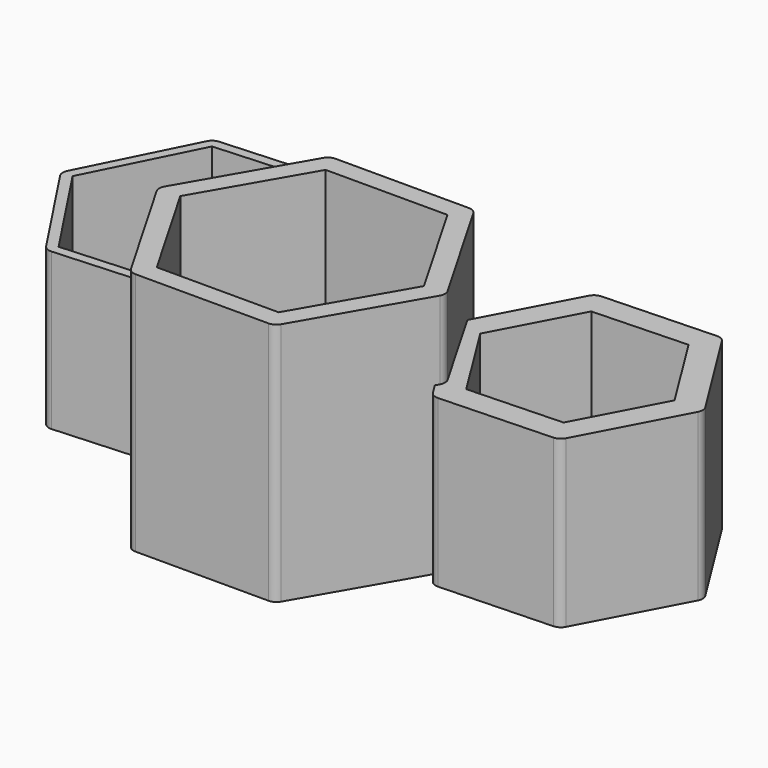
from build123d import *

# Parameters (mm, degrees)
F1_DEPTH  = 100
F3_DEPTH  = 90
F4_DEPTH  = 25
F5_R      = 5
F7_DEPTH  = 25
F8_DEPTH  = 60
F9_R      = 5
F11_DEPTH = 10
F12_DEPTH = 50
F14_DEPTH = 10
F16_DEPTH = 80
F18_DEPTH = 75
F19_R     = 5


with BuildPart() as f1:
    # F0 (on Top) → F1 (new body)
    with BuildSketch(Plane.XY):
        Polygon((36.954793705, 64.0075802803), (-36.954793705, 64.0075802803), (-73.90958741, 0), (-36.954793705, -64.0075802803), (36.954793705, -64.0075802803), (73.90958741, 0), align=None)
    extrude(amount=F1_DEPTH)

    # F2 (on face) → F3 (cut)
    with BuildSketch(Plane.XY.offset(100)):
        Polygon((31.1812910131, 54.0075802803), (-31.1812910131, 54.0075802803), (-62.3625820262, 0), (-31.1812910131, -54.0075802803), (31.1812910131, -54.0075802803), (62.3625820262, 0), align=None)
    extrude(amount=-F3_DEPTH, mode=Mode.SUBTRACT)

    # F4 (add): a face of the model
    f4_faces = [f1.faces().sort_by_distance(p)[0] for p in [
        (53.7387091631, 31.0260582012, 100),
    ]]
    extrude(f4_faces, amount=F4_DEPTH)

    # F5
    f5_edges = [f1.edges().sort_by_distance(p)[0] for p in [
        (36.954794, -64.00758, 62.5),
        (73.909587, 0, 62.5),
        (36.954794, 64.00758, 62.5),
        (-36.954794, -64.00758, 62.5),
        (-73.909587, 0, 62.5),
        (-36.954794, 64.00758, 62.5),
    ]]
    fillet(f5_edges, radius=F5_R)

    # F6 (on Top) → F7 (join)
    with BuildSketch(Plane.XY):
        Polygon((72.4010563695, 97.2648855515), (42.7573003567, 41.3652363949), (76.3459385825, -12.2568339541), (139.5783328212, -9.9792551465), (169.222088834, 45.9203940101), (135.6334506082, 99.5424643591), align=None)
        Polygon((57.6229365769, 41.9006843788), (80.2975860361, 84.6585909333), (128.6643440546, 86.400721757), (154.3564526138, 45.3849460261), (131.6818031546, 2.6270394716), (83.3150451361, 0.884908648), align=None, mode=Mode.SUBTRACT)
    extrude(amount=F7_DEPTH)

    # F8 (add): a face of the model
    f8_faces = [f1.faces().sort_by_distance(p)[0] for p in [
        (104.0770804564, 96.7426995418, 25),
    ]]
    extrude(f8_faces, amount=F8_DEPTH)

    # F9
    f9_edges = [f1.edges().sort_by_distance(p)[0] for p in [
        (139.578333, -9.979255, 42.5),
        (169.222089, 45.920394, 42.5),
        (135.633451, 99.542464, 42.5),
        (76.345939, -12.256834, 42.5),
        (72.401056, 97.264886, 42.5),
    ]]
    fillet(f9_edges, radius=F9_R)

    # F13 (on Top) → F14 (join)
    with BuildSketch(Plane.XY):
        Polygon((80.7393563532, 83.0987106545), (58.3791809535, 40.7320548312), (83.8896934701, 0.1842469904), (131.7603813863, 2.0030949728), (154.120556786, 44.3697507961), (128.6100442695, 84.917558637), align=None)
    extrude(amount=F14_DEPTH)

    # F15 (on Top) → F16 (join)
    with BuildSketch(Plane.XY):
        Polygon((-62.4931809091, 1.7224331433), (-32.4628147698, 61.7831568187), (-69.4617441727, 117.8205786179), (-136.4910397149, 113.7972767418), (-166.5214058542, 53.7365530664), (-129.5224764513, -2.3008687328), align=None)
    extrude(amount=F16_DEPTH)

    # F17 (on face) → F18 (cut)
    with BuildSketch(Plane.XY.offset(80)):
        with BuildLine():
            Line((-72.0437333661, 112.6566009709), (-133.3098984847, 108.9792196846))
            Line((-133.3098984847, 108.9792196846), (-160.7582754306, 54.0824736562))
            Line((-160.7582754306, 54.0824736562), (-126.9404872579, 2.8631089142))
            Line((-126.9404872579, 2.8631089142), (-76.2742702816, 5.9042491226))
            Line((-76.2742702816, 5.9042491226), (-42.7282963969, 64.0075802803))
            ThreePointArc((-42.7282963969, 64.0075802803), (-42.0407030657, 65.043860696), (-41.2297996458, 65.986780275))
            Line((-41.2297996458, 65.986780275), (-72.0437333661, 112.6566009709))
        make_face()
    extrude(amount=-F18_DEPTH, mode=Mode.SUBTRACT)

    # F19
    f19_edges = [f1.edges().sort_by_distance(p)[0] for p in [
        (-129.522476, -2.300869, 40),
        (-166.521406, 53.736553, 40),
        (-136.49104, 113.797277, 40),
        (-69.461744, 117.820579, 40),
    ]]
    fillet(f19_edges, radius=F19_R)


with BuildPart() as f11:
    # F10 (on face) → F11 (new body)
    with BuildSketch(Plane.XY.offset(85)):
        Polygon((80.2975860361, 84.6585909333), (57.6229365769, 41.9006843788), (83.3150451361, 0.884908648), (131.6818031546, 2.6270394716), (154.3564526138, 45.3849460261), (128.6643440546, 86.400721757), align=None)
    extrude(amount=F11_DEPTH)

    # F12 (cut): a face of the model
    f12_faces = [f11.faces().sort_by_distance(p)[0] for p in [
        (105.9896945953, 43.6428152025, 95),
    ]]
    extrude(f12_faces, amount=-F12_DEPTH, mode=Mode.SUBTRACT)


solid = f1.part
